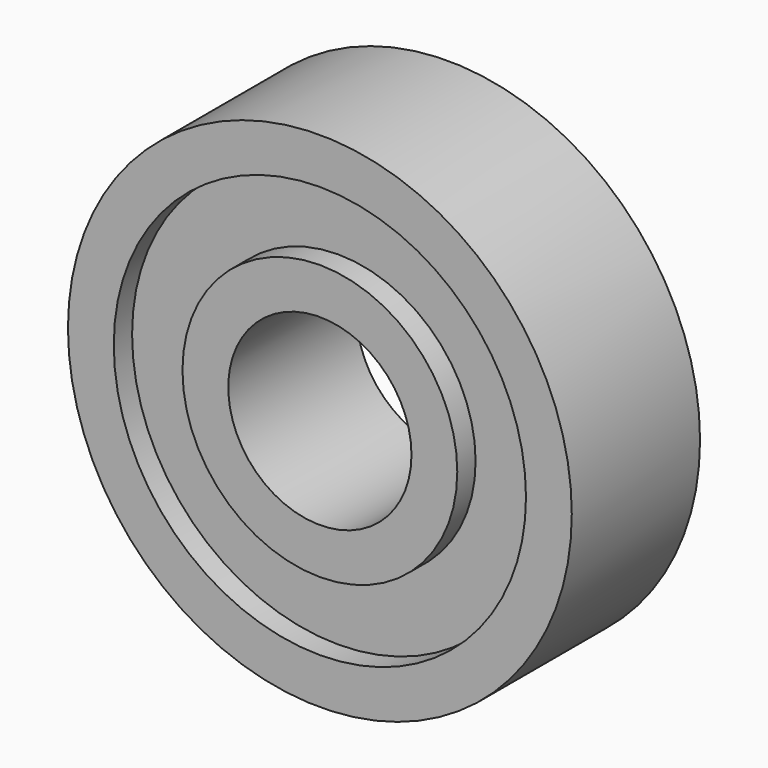
from build123d import *

# Parameters (mm, degrees)
F0_R     = 6
F0_R_2   = 4
F1_DEPTH = 7
F0_R_3   = 11
F0_R_4   = 9
F2_DEPTH = 7
F3_DEPTH = 6


with BuildPart() as f1:
    # F0 (on Front) → F1 (new body)
    with BuildSketch(Plane.XZ):
        Circle(F0_R)
        Circle(F0_R_2, mode=Mode.SUBTRACT)
    extrude(amount=F1_DEPTH)


with BuildPart() as f2:
    # F0 (on Front) → F2 (new body)
    with BuildSketch(Plane.XZ):
        Circle(F0_R_3)
        Circle(F0_R_4, mode=Mode.SUBTRACT)
    extrude(amount=F2_DEPTH)


with BuildPart() as f3:
    # F0 (on Front) → F3 (new body)
    with BuildSketch(Plane.XZ):
        Circle(F0_R_4)
        Circle(F0_R, mode=Mode.SUBTRACT)
    extrude(amount=F3_DEPTH)


solid = Compound([f1.part, f2.part, f3.part])
